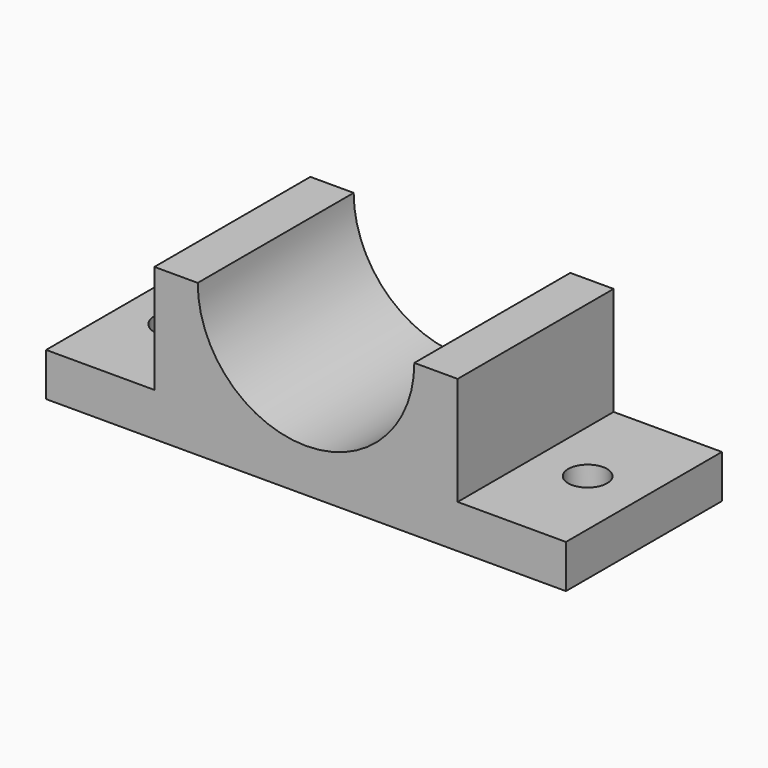
from build123d import *

# Parameters (mm, degrees)
F0_W     = 60
F0_H     = 22.5
F1_DEPTH = 5
F2_W     = 35
F2_H     = 22.5
F3_DEPTH = 12.5
F5_DEPTH = 22.501
F6_R     = 2.5
F6_R_2   = 2.245551
F7_DEPTH = 5.001


with BuildPart() as f1:
    # F0 (on Top) → F1 (new body)
    with BuildSketch(Plane.XY):
        with Locations((-5.696384, -5.038032)):
            Rectangle(F0_W, F0_H)
    extrude(amount=F1_DEPTH)

    # F2 (on face) → F3 (join)
    with BuildSketch(Plane.XY.offset(5)):
        with Locations((-5.696384, -5.038032)):
            Rectangle(F2_W, F2_H)
    extrude(amount=F3_DEPTH)

    # F4 (on face) → F5 (cut, through all)
    with BuildSketch(Plane.XZ.offset(16.288032)):
        with BuildLine():
            Line((6.803616, 17.5), (-18.196384, 17.5))
            ThreePointArc((-18.196384, 17.5), (-5.696384, 5), (6.803616, 17.5))
        make_face()
    extrude(amount=-F5_DEPTH, mode=Mode.SUBTRACT)

    # F6 (on face) → F7 (cut, through all)
    with BuildSketch(Plane.XY.offset(5)):
        with Locations((-29.696384, -5.038232)):
            Circle(F6_R)
        with Locations((17.804456, -5.033552)):
            Circle(F6_R_2)
    extrude(amount=-F7_DEPTH, mode=Mode.SUBTRACT)


solid = f1.part
